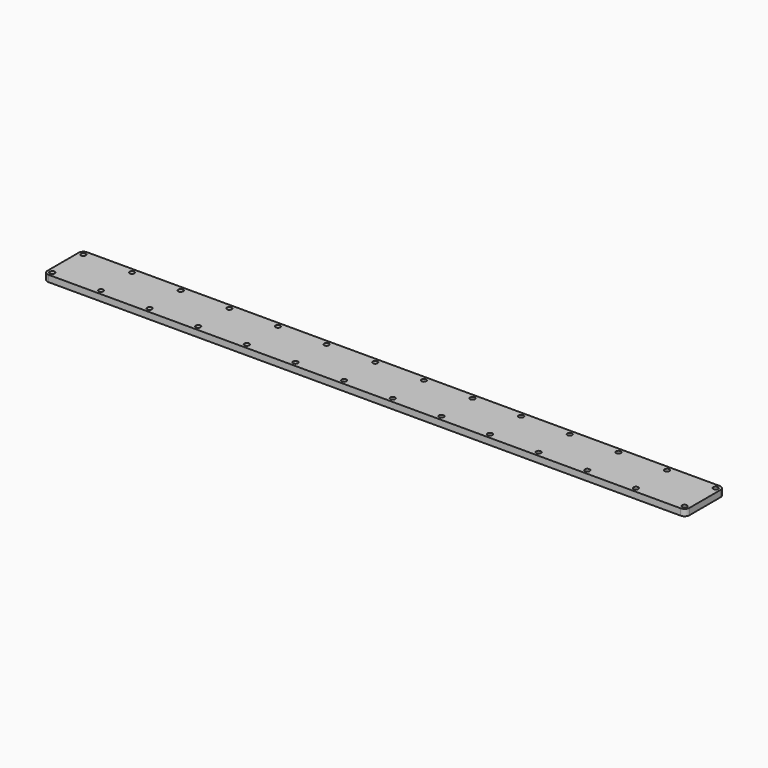
from build123d import *

# Parameters (mm, degrees)
SKETCH_R  = 3
PAD_DEPTH = 8


with BuildPart() as part:
    # Sketch → Pad (new body)
    with BuildSketch(Plane.XY):
        with BuildLine():
            Line((0, 0), (0, 24))
            ThreePointArc((6, 30), (1.757359, 28.242641), (0, 24))
            Line((6, 30), (786, 30))
            ThreePointArc((792, 24.00001), (790.242637, 28.242644), (786, 30))
            Line((792, 24.00001), (792, -24))
            ThreePointArc((786, -30), (790.242641, -28.242641), (792, -24))
            Line((786, -30), (6, -30))
            ThreePointArc((0, -24), (1.757359, -28.242641), (6, -30))
            Line((0, 0), (0, -24))
        make_face()
        with Locations((6, -24)):
            Circle(SKETCH_R, mode=Mode.SUBTRACT)
        with Locations((6, 24)):
            Circle(SKETCH_R, mode=Mode.SUBTRACT)
        with Locations((66, 24)):
            Circle(SKETCH_R, mode=Mode.SUBTRACT)
        with Locations((126, 24)):
            Circle(SKETCH_R, mode=Mode.SUBTRACT)
        with Locations((186, 24)):
            Circle(SKETCH_R, mode=Mode.SUBTRACT)
        with Locations((246, 24)):
            Circle(SKETCH_R, mode=Mode.SUBTRACT)
        with Locations((306, 24)):
            Circle(SKETCH_R, mode=Mode.SUBTRACT)
        with Locations((366, 24)):
            Circle(SKETCH_R, mode=Mode.SUBTRACT)
        with Locations((426, 24)):
            Circle(SKETCH_R, mode=Mode.SUBTRACT)
        with Locations((486, 24)):
            Circle(SKETCH_R, mode=Mode.SUBTRACT)
        with Locations((546, 24)):
            Circle(SKETCH_R, mode=Mode.SUBTRACT)
        with Locations((606, 24)):
            Circle(SKETCH_R, mode=Mode.SUBTRACT)
        with Locations((666, 24)):
            Circle(SKETCH_R, mode=Mode.SUBTRACT)
        with Locations((726, 24)):
            Circle(SKETCH_R, mode=Mode.SUBTRACT)
        with Locations((786, 24)):
            Circle(SKETCH_R, mode=Mode.SUBTRACT)
        with Locations((66, -24)):
            Circle(SKETCH_R, mode=Mode.SUBTRACT)
        with Locations((126, -24)):
            Circle(SKETCH_R, mode=Mode.SUBTRACT)
        with Locations((186, -24)):
            Circle(SKETCH_R, mode=Mode.SUBTRACT)
        with Locations((246, -24)):
            Circle(SKETCH_R, mode=Mode.SUBTRACT)
        with Locations((306, -24)):
            Circle(SKETCH_R, mode=Mode.SUBTRACT)
        with Locations((366, -24)):
            Circle(SKETCH_R, mode=Mode.SUBTRACT)
        with Locations((426, -24)):
            Circle(SKETCH_R, mode=Mode.SUBTRACT)
        with Locations((486, -24)):
            Circle(SKETCH_R, mode=Mode.SUBTRACT)
        with Locations((546, -24)):
            Circle(SKETCH_R, mode=Mode.SUBTRACT)
        with Locations((606, -24)):
            Circle(SKETCH_R, mode=Mode.SUBTRACT)
        with Locations((666, -24)):
            Circle(SKETCH_R, mode=Mode.SUBTRACT)
        with Locations((726, -24)):
            Circle(SKETCH_R, mode=Mode.SUBTRACT)
        with Locations((786, -24)):
            Circle(SKETCH_R, mode=Mode.SUBTRACT)
    extrude(amount=PAD_DEPTH)


solid = part.part
